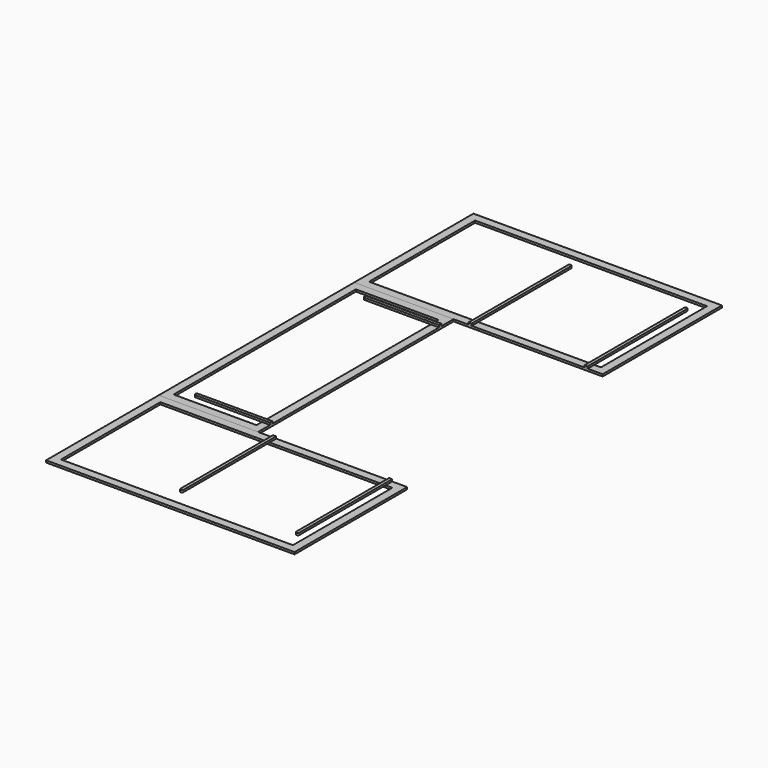
from build123d import *

# Parameters (mm, degrees)
F0_W     = 2844.8
F0_H     = 1625.6
F1_DEPTH = 25.4
F0_W_2   = 1219.2
F0_H_2   = 2997.2
F0_W_3   = 1016
F0_H_3   = 2794
F2_DEPTH = 25.4
F0_H_4   = 1524
F3_DEPTH = 25.4
F5_DEPTH = 25.4


with BuildPart() as f1:
    # F0 (on Top) → F1 (new body)
    with BuildSketch(Plane.XY):
        Polygon((3048, 0), (0, 0), (0, -1828.8), (1219.2, -1828.8), (3048, -1828.8), align=None)
        with Locations((1524, -914.4)):
            Rectangle(F0_W, F0_H, mode=Mode.SUBTRACT)
    extrude(amount=F1_DEPTH)


with BuildPart() as f2:
    # F0 (on Top) → F2 (new body)
    with BuildSketch(Plane.XY):
        with Locations((609.6, -3327.4)):
            Rectangle(F0_W_2, F0_H_2)
        with Locations((609.6, -3327.4)):
            Rectangle(F0_W_3, F0_H_3, mode=Mode.SUBTRACT)
    extrude(amount=F2_DEPTH)


with BuildPart() as f3:
    # F0 (on Top) → F3 (new body)
    with BuildSketch(Plane.XY):
        Polygon((1219.2, -4826), (0, -4826), (0, -6553.2), (3048, -6553.2), (3048, -4826), align=None)
        with Locations((1524, -5689.6)):
            Rectangle(F0_W, F0_H_4, mode=Mode.SUBTRACT)
    extrude(amount=F3_DEPTH)


with BuildPart() as f5:
    # F4 (on face) → F5 (new body)
    with BuildSketch(Plane.XY.offset(25.4)):
        with BuildLine():
            Line((2825.75, -304.8), (2825.75, -1828.8))
            Line((2825.75, -1828.8), (2863.85, -1828.8))
            Line((2863.85, -1828.8), (2863.85, -304.8))
            ThreePointArc((2863.85, -304.8), (2844.8, -323.85), (2825.75, -304.8))
        make_face()
        with BuildLine():
            ThreePointArc((2863.85, -304.8), (2844.8, -285.75), (2825.75, -304.8))
            Line((2825.75, -304.8), (2863.85, -304.8))
        make_face()
        with BuildLine():
            Line((2863.85, -304.8), (2825.75, -304.8))
            ThreePointArc((2825.75, -304.8), (2844.8, -323.85), (2863.85, -304.8))
        make_face()
    extrude(amount=F5_DEPTH)


with BuildPart() as f5b:
    # F4 (on face) → F5, piece 2 (new body)
    with BuildSketch(Plane.XY.offset(25.4)):
        with BuildLine():
            Line((1403.35, -304.8), (1403.35, -1828.8))
            Line((1403.35, -1828.8), (1441.45, -1828.8))
            Line((1441.45, -1828.8), (1441.45, -304.8))
            ThreePointArc((1441.45, -304.8), (1422.4, -323.85), (1403.35, -304.8))
        make_face()
        with BuildLine():
            ThreePointArc((1441.45, -304.8), (1422.4, -285.75), (1403.35, -304.8))
            Line((1403.35, -304.8), (1441.45, -304.8))
        make_face()
        with BuildLine():
            Line((1441.45, -304.8), (1403.35, -304.8))
            ThreePointArc((1403.35, -304.8), (1422.4, -323.85), (1441.45, -304.8))
        make_face()
    extrude(amount=F5_DEPTH)


with BuildPart() as f5c:
    # F4 (on face) → F5, piece 3 (new body)
    with BuildSketch(Plane.XY.offset(25.4)):
        with BuildLine():
            Line((1219.2, -2051.05), (1219.2, -2012.95))
            Line((1219.2, -2012.95), (304.8, -2012.95))
            ThreePointArc((304.8, -2012.95), (318.2703841816, -2018.5296158184), (323.85, -2032))
            ThreePointArc((323.85, -2032), (318.2703841816, -2045.4703841816), (304.8, -2051.05))
            Line((304.8, -2051.05), (1219.2, -2051.05))
        make_face()
        with BuildLine():
            ThreePointArc((323.85, -2032), (318.2703841816, -2018.5296158184), (304.8, -2012.95))
            Line((304.8, -2012.95), (304.8, -2051.05))
            ThreePointArc((304.8, -2051.05), (318.2703841816, -2045.4703841816), (323.85, -2032))
        make_face()
        with BuildLine():
            Line((304.8, -2051.05), (304.8, -2012.95))
            ThreePointArc((304.8, -2012.95), (285.75, -2032), (304.8, -2051.05))
        make_face()
    extrude(amount=F5_DEPTH)


with BuildPart() as f5d:
    # F4 (on face) → F5, piece 4 (new body)
    with BuildSketch(Plane.XY.offset(25.4)):
        with BuildLine():
            Line((1219.2, -4641.85), (1219.2, -4603.75))
            Line((1219.2, -4603.75), (304.8, -4603.75))
            ThreePointArc((304.8, -4603.75), (318.2703841816, -4609.3296158184), (323.85, -4622.8))
            ThreePointArc((323.85, -4622.8), (318.2703841816, -4636.2703841816), (304.8, -4641.85))
            Line((304.8, -4641.85), (1219.2, -4641.85))
        make_face()
        with BuildLine():
            ThreePointArc((323.85, -4622.8), (318.2703841816, -4609.3296158184), (304.8, -4603.75))
            Line((304.8, -4603.75), (304.8, -4641.85))
            ThreePointArc((304.8, -4641.85), (318.2703841816, -4636.2703841816), (323.85, -4622.8))
        make_face()
        with BuildLine():
            Line((304.8, -4641.85), (304.8, -4603.75))
            ThreePointArc((304.8, -4603.75), (285.75, -4622.8), (304.8, -4641.85))
        make_face()
    extrude(amount=F5_DEPTH)


with BuildPart() as f5e:
    # F4 (on face) → F5, piece 5 (new body)
    with BuildSketch(Plane.XY.offset(25.4)):
        with BuildLine():
            Line((1441.45, -4826), (1403.35, -4826))
            Line((1403.35, -4826), (1403.35, -6248.4))
            ThreePointArc((1403.35, -6248.4), (1422.4, -6229.35), (1441.45, -6248.4))
            Line((1441.45, -6248.4), (1441.45, -4826))
        make_face()
        with BuildLine():
            ThreePointArc((1441.45, -6248.4), (1422.4, -6229.35), (1403.35, -6248.4))
            Line((1403.35, -6248.4), (1441.45, -6248.4))
        make_face()
        with BuildLine():
            Line((1441.45, -6248.4), (1403.35, -6248.4))
            ThreePointArc((1403.35, -6248.4), (1422.4, -6267.45), (1441.45, -6248.4))
        make_face()
    extrude(amount=F5_DEPTH)


with BuildPart() as f5f:
    # F4 (on face) → F5, piece 6 (new body)
    with BuildSketch(Plane.XY.offset(25.4)):
        with BuildLine():
            Line((2863.85, -4826), (2825.75, -4826))
            Line((2825.75, -4826), (2825.75, -6248.4))
            ThreePointArc((2825.75, -6248.4), (2844.8, -6229.35), (2863.85, -6248.4))
            Line((2863.85, -6248.4), (2863.85, -4826))
        make_face()
        with BuildLine():
            ThreePointArc((2863.85, -6248.4), (2844.8, -6229.35), (2825.75, -6248.4))
            Line((2825.75, -6248.4), (2863.85, -6248.4))
        make_face()
        with BuildLine():
            Line((2863.85, -6248.4), (2825.75, -6248.4))
            ThreePointArc((2825.75, -6248.4), (2844.8, -6267.45), (2863.85, -6248.4))
        make_face()
    extrude(amount=F5_DEPTH)


solid = Compound([f1.part, f2.part, f3.part, f5.part, f5b.part, f5c.part, f5d.part, f5e.part, f5f.part])
